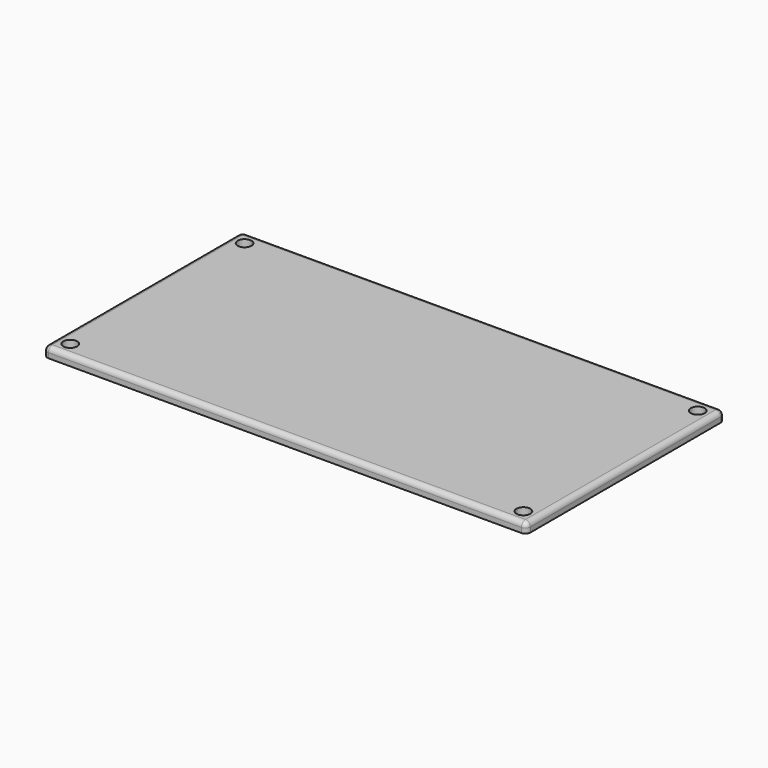
from build123d import *

# Parameters (mm, degrees)
SKETCH_W  = 97.5
SKETCH_H  = 50
SKETCH_R  = 1.4
PAD_DEPTH = 2
FILLET_R  = 1


with BuildPart() as part:
    # Sketch → Pad (new body)
    with BuildSketch(Plane.XY):
        Rectangle(SKETCH_W, SKETCH_H)
        with Locations((-45.75, 22)):
            Circle(SKETCH_R, mode=Mode.SUBTRACT)
        with Locations((45.75, 22)):
            Circle(SKETCH_R, mode=Mode.SUBTRACT)
        with Locations((45.75, -22)):
            Circle(SKETCH_R, mode=Mode.SUBTRACT)
        with Locations((-45.75, -22)):
            Circle(SKETCH_R, mode=Mode.SUBTRACT)
    extrude(amount=PAD_DEPTH)

    # Fillet
    fillet_edges = [part.edges().sort_by_distance(p)[0] for p in [
        (48.75, 0, 2),
        (48.75, 25, 1),
        (48.75, -25, 1),
        (0, -25, 2),
        (0, 25, 2),
        (-48.75, 0, 2),
        (-48.75, 25, 1),
        (-48.75, -25, 1),
    ]]
    fillet(fillet_edges, radius=FILLET_R)


solid = part.part
